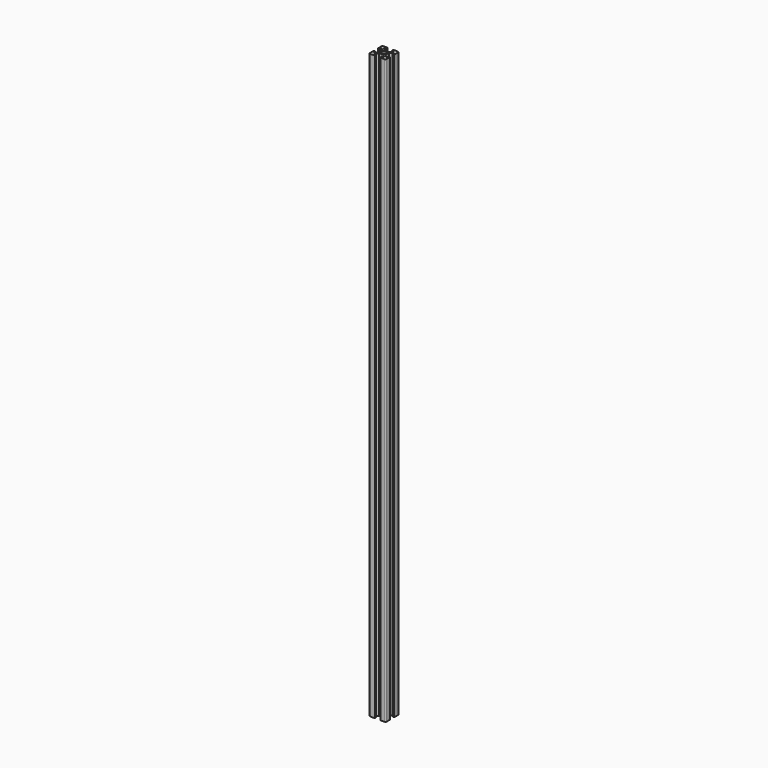
from build123d import *

# Parameters (mm, degrees)
F0_R     = 2.5
F1_DEPTH = 700


with BuildPart() as f1:
    # F0 (on Top) → F1 (new body)
    with BuildSketch(Plane.XY):
        with BuildLine():
            Line((-3.6, 10), (-8.5, 10))
            ThreePointArc((-8.5, 10), (-9.56066, 9.56066), (-10, 8.5))
            Line((-10, 8.5), (-10, 3.6))
            Line((-10, 3.6), (-9.5, 3.6))
            Line((-9.5, 3.6), (-9.5, 3.1))
            Line((-9.5, 3.1), (-8, 3.1))
            Line((-8, 3.1), (-8, 5.5))
            Line((-8, 5.5), (-6.914214, 5.5))
            Line((-6.914214, 5.5), (-4, 2.585786))
            Line((-4, 2.585786), (-4, -2.288562))
            Line((-4, -2.288562), (-6.833622, -5.5))
            Line((-6.833622, -5.5), (-8, -5.5))
            Line((-8, -5.5), (-8, -3.1))
            Line((-8, -3.1), (-9.5, -3.1))
            Line((-9.5, -3.1), (-9.5, -3.6))
            Line((-9.5, -3.6), (-10, -3.6))
            Line((-10, -3.6), (-10, -8.5))
            ThreePointArc((-10, -8.5), (-9.56066, -9.56066), (-8.5, -10))
            Line((-8.5, -10), (-3.6, -10))
            Line((-3.6, -10), (-3.6, -9.5))
            Line((-3.6, -9.5), (-3.1, -9.5))
            Line((-3.1, -9.5), (-3.1, -8))
            Line((-3.1, -8), (-5.5, -8))
            Line((-5.5, -8), (-5.5, -7.011438))
            Line((-5.5, -7.011438), (-2.666378, -3.8))
            Line((-2.666378, -3.8), (2.385786, -3.8))
            Line((2.385786, -3.8), (5.5, -6.914214))
            Line((5.5, -6.914214), (5.5, -8))
            Line((5.5, -8), (3.1, -8))
            Line((3.1, -8), (3.1, -9.5))
            Line((3.1, -9.5), (3.6, -9.5))
            Line((3.6, -9.5), (3.6, -10))
            Line((3.6, -10), (8.5, -10))
            ThreePointArc((8.5, -10), (9.56066, -9.56066), (10, -8.5))
            Line((10, -8.5), (10, -3.6))
            Line((10, -3.6), (9.5, -3.6))
            Line((9.5, -3.6), (9.5, -3.1))
            Line((9.5, -3.1), (8, -3.1))
            Line((8, -3.1), (8, -5.5))
            Line((8, -5.5), (6.914214, -5.5))
            Line((6.914214, -5.5), (3.8, -2.385786))
            Line((3.8, -2.385786), (3.8, 2.666378))
            Line((3.8, 2.666378), (7.011438, 5.5))
            Line((7.011438, 5.5), (8, 5.5))
            Line((8, 5.5), (8, 3.1))
            Line((8, 3.1), (9.5, 3.1))
            Line((9.5, 3.1), (9.5, 3.6))
            Line((9.5, 3.6), (10, 3.6))
            Line((10, 3.6), (10, 8.5))
            ThreePointArc((10, 8.5), (9.56066, 9.56066), (8.5, 10))
            Line((8.5, 10), (3.6, 10))
            Line((3.6, 10), (3.6, 9.5))
            Line((3.6, 9.5), (3.1, 9.5))
            Line((3.1, 9.5), (3.1, 8))
            Line((3.1, 8), (5.5, 8))
            Line((5.5, 8), (5.5, 6.833622))
            Line((5.5, 6.833622), (2.288562, 4))
            Line((2.288562, 4), (-2.585786, 4))
            Line((-2.585786, 4), (-5.5, 6.914214))
            Line((-5.5, 6.914214), (-5.5, 8))
            Line((-5.5, 8), (-3.1, 8))
            Line((-3.1, 8), (-3.1, 9.5))
            Line((-3.1, 9.5), (-3.6, 9.5))
            Line((-3.6, 9.5), (-3.6, 10))
        make_face()
        Circle(F0_R, mode=Mode.SUBTRACT)
    extrude(amount=F1_DEPTH)


solid = f1.part
